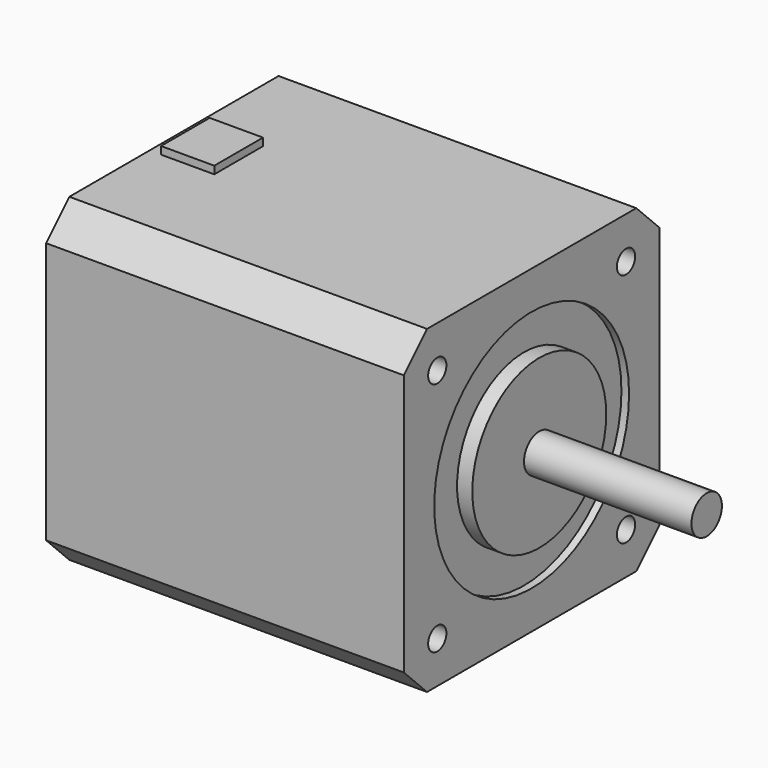
from build123d import *

# Parameters (mm, degrees)
SKETCH_W        = 42
SKETCH_H        = 42
PAD_DEPTH       = 47
SKETCH001_R     = 1.5
POCKET_DEPTH    = 5
POCKET001_DEPTH = 47
SKETCH003_R     = 16
POCKET002_DEPTH = 1
SKETCH004_R     = 11
PAD001_DEPTH    = 2
SKETCH005_R     = 2.5
PAD002_DEPTH    = 22
SKETCH006_W     = 8
SKETCH006_H     = 7
PAD003_DEPTH    = 1


with BuildPart() as part:
    # Sketch → Pad (new body)
    with BuildSketch(Plane.YZ):
        Rectangle(SKETCH_W, SKETCH_H)
    extrude(amount=PAD_DEPTH)

    # Sketch001 → Pocket (cut)
    with BuildSketch(Plane.YZ.offset(47)):
        with Locations((15.5, 15.5)):
            Circle(SKETCH001_R)
        with Locations((-15.5, 15.5)):
            Circle(SKETCH001_R)
        with Locations((-15.5, -15.5)):
            Circle(SKETCH001_R)
        with Locations((15.5, -15.5)):
            Circle(SKETCH001_R)
    extrude(amount=-POCKET_DEPTH, mode=Mode.SUBTRACT)

    # Sketch002 → Pocket001 (cut)
    with BuildSketch(Plane.YZ.offset(47)):
        Polygon((-21, 21), (-21, 17.183766), (-17.183766, 21), align=None)
        Polygon((21, 21), (17.183766, 21), (21, 17.183766), align=None)
        Polygon((21, -21), (21, -17.183766), (17.183766, -21), align=None)
        Polygon((-21, -21), (-21, -17.183766), (-17.183766, -21), align=None)
    extrude(amount=-POCKET001_DEPTH, mode=Mode.SUBTRACT)

    # Sketch003 → Pocket002 (cut)
    with BuildSketch(Plane.YZ.offset(47)):
        Circle(SKETCH003_R)
    extrude(amount=-POCKET002_DEPTH, mode=Mode.SUBTRACT)

    # Sketch004 → Pad001 (new body)
    with BuildSketch(Plane.YZ.offset(46)):
        Circle(SKETCH004_R)
    extrude(amount=PAD001_DEPTH)

    # Sketch005 → Pad002 (new body)
    with BuildSketch(Plane.YZ.offset(48)):
        Circle(SKETCH005_R)
    extrude(amount=PAD002_DEPTH)

    # Sketch006 → Pad003 (new body)
    with BuildSketch(Plane(origin=(0, 0, 21), x_dir=(0, -1, 0), z_dir=(0, 0, 1))):
        with Locations((0, 5)):
            Rectangle(SKETCH006_W, SKETCH006_H)
    extrude(amount=PAD003_DEPTH)


solid = part.part
